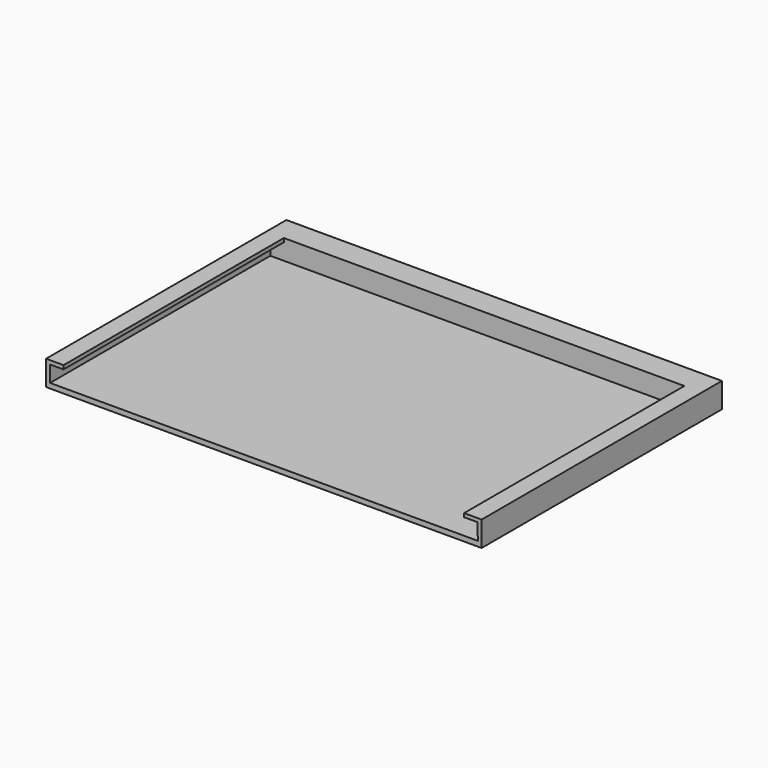
from build123d import *

# Parameters (mm, degrees)
PAD012_DEPTH = 110
BOX_W        = 174
BOX_H        = 120
BOX_DEPTH    = 10


with BuildPart() as pad012:
    # Sketch015 → Pad012 (new body)
    with BuildSketch(Plane.XZ.offset(-110)):
        Polygon((10, 12.723166), (9.966702, 8.484643), (4.563902, 8.484643), (4.5972, 2), (175.457199, 2.027261), (175.44223, 8.564159), (169.985031, 8.536898), (170, 13), align=None)
    extrude(amount=PAD012_DEPTH)


with BuildPart() as pcb_holder:
    # Box → Box (new body)
    with BuildSketch(Plane(origin=(3, 0, 0), x_dir=(1, 0, 0), z_dir=(0, 0, 1))):
        with Locations((87, 60)):
            Rectangle(BOX_W, BOX_H)
    extrude(amount=BOX_DEPTH)

    # Cut003: cut Pad012
    add(pad012.part, mode=Mode.SUBTRACT)


with BuildPart() as pcb_holder_1:
    # Cut003 placement: moved
    add(pcb_holder.part.moved(Location((0, -1, 0))))


solid = pcb_holder_1.part
